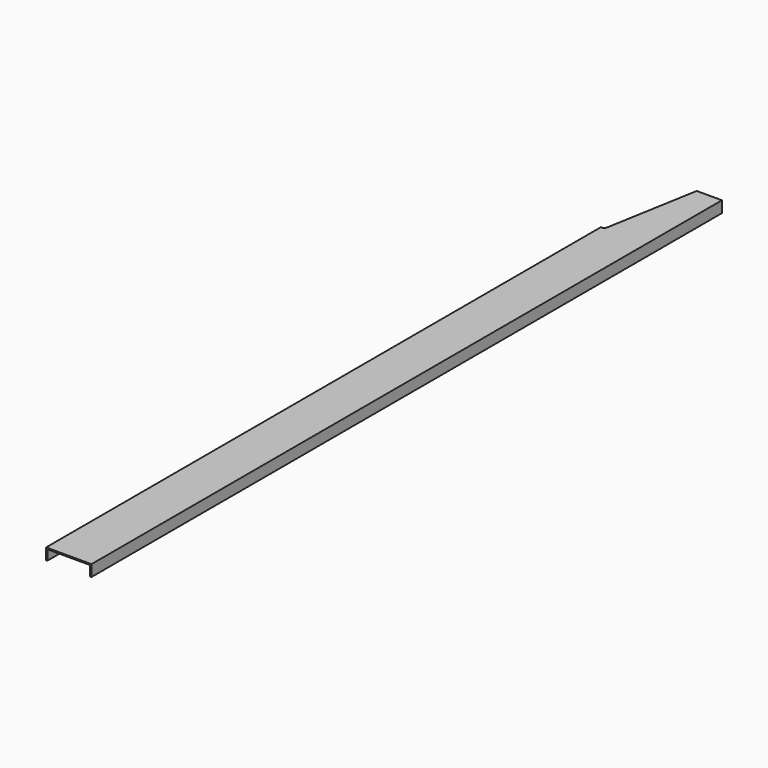
from build123d import *

# Parameters (mm, degrees)
F1_DEPTH = 5000
F3_DEPTH = 72.001


with BuildPart() as f1:
    # F0 (on Front) → F1 (new body)
    with BuildSketch(Plane.XZ):
        with BuildLine():
            Line((144, 8), (0, 8))
            Line((0, 8), (-144, 8))
            Line((-144, 8), (-144, -64))
            Line((-144, -64), (-136, -64))
            Line((-136, -64), (-136, -8))
            ThreePointArc((-136, -8), (-133.656854, -2.343146), (-128, 0))
            Line((-128, 0), (0, 0))
            Line((0, 0), (128, 0))
            ThreePointArc((128, 0), (133.656854, -2.343146), (136, -8))
            Line((136, -8), (136, -64))
            Line((136, -64), (144, -64))
            Line((144, -64), (144, 8))
        make_face()
    extrude(amount=F1_DEPTH)

    # F2 (on face) → F3 (cut, through all)
    with BuildSketch(Plane.XY.offset(8)):
        with BuildLine():
            Line((-118.103331, -583.447607), (-16, 0))
            Line((-16, 0), (-144, 0))
            Line((-144, 0), (-144, -600))
            Line((-144, -600), (-137.803941, -600))
            ThreePointArc((-137.803941, -600), (-124.93833, -595.312611), (-118.103331, -583.447607))
        make_face()
    extrude(amount=-F3_DEPTH, mode=Mode.SUBTRACT)


solid = f1.part
